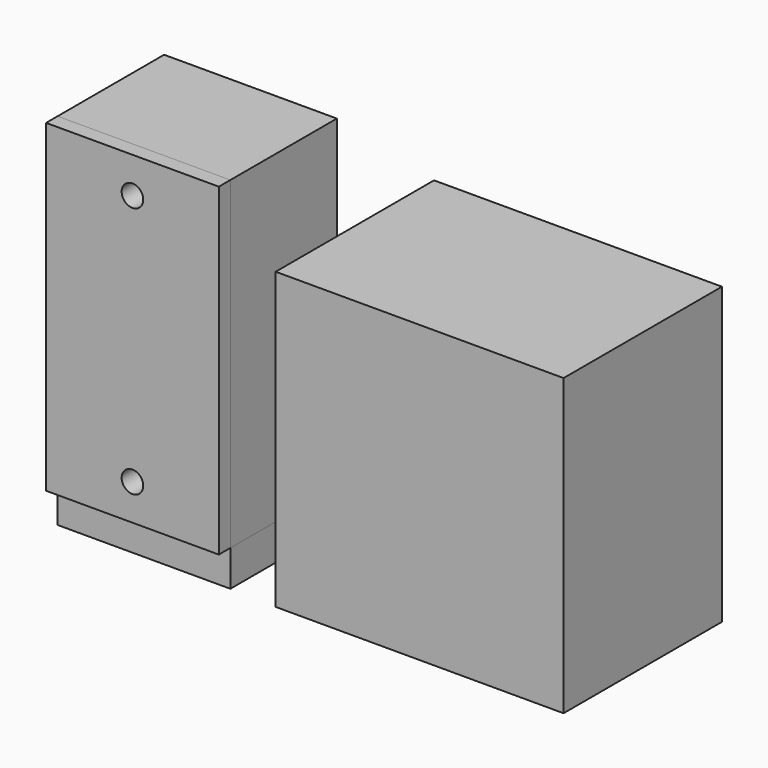
from build123d import *

# Parameters (mm, degrees)
BOX_W                  = 40
BOX_H                  = 2
BOX_DEPTH              = 80
BOX001_W               = 33
BOX001_H               = 16
BOX001_DEPTH           = 60
BOX002_W               = 80
BOX002_H               = 55
BOX002_DEPTH           = 82
CYLINDER016_R          = 3
CYLINDER016_DEPTH      = 10
CYLINDER016_ROLL_ANGLE = 90
CYLINDER015_R          = 3
CYLINDER015_DEPTH      = 10
CYLINDER015_ROLL_ANGLE = 90
BOX005_W               = 48
BOX005_H               = 4
BOX005_DEPTH           = 90
CYLINDER014_R          = 3
CYLINDER014_DEPTH      = 22
CYLINDER014_ROLL_ANGLE = 90
CYLINDER012_R          = 1.15
CYLINDER012_DEPTH      = 6
CYLINDER012_ROLL_ANGLE = 90
CYLINDER011_R          = 4
CYLINDER011_DEPTH      = 22
CYLINDER011_ROLL_ANGLE = 90
CYLINDER_R             = 3
CYLINDER_DEPTH         = 22
CYLINDER_ROLL_ANGLE    = 90
CYLINDER013_R          = 1.15
CYLINDER013_DEPTH      = 6
CYLINDER013_ROLL_ANGLE = 90
CYLINDER010_R          = 4
CYLINDER010_DEPTH      = 22
CYLINDER010_ROLL_ANGLE = 90
CYLINDER005_R          = 1.15
CYLINDER005_DEPTH      = 6
CYLINDER005_ROLL_ANGLE = 90
CYLINDER004_R          = 1.15
CYLINDER004_DEPTH      = 6
CYLINDER004_ROLL_ANGLE = 90
CYLINDER003_R          = 3.5
CYLINDER003_DEPTH      = 10
CYLINDER003_ROLL_ANGLE = 90
CYLINDER002_R          = 3.5
CYLINDER002_DEPTH      = 10
CYLINDER002_ROLL_ANGLE = 90
BOX004_W               = 42
BOX004_H               = 34
BOX004_DEPTH           = 84
BOX003_W               = 48
BOX003_H               = 37
BOX003_DEPTH           = 90
CYLINDER017_R          = 4.5
CYLINDER017_DEPTH      = 10
BOX006_W               = 48
BOX006_H               = 37
BOX006_DEPTH           = 10


with BuildPart() as pcb:
    # Box → Box (new body)
    with BuildSketch(Plane(origin=(-20, 0, 0), x_dir=(1, 0, 0), z_dir=(0, 0, 1))):
        with Locations((20, 1)):
            Rectangle(BOX_W, BOX_H)
    extrude(amount=BOX_DEPTH)


with BuildPart() as aa_battery:
    # Box001 → Box001 (new body)
    with BuildSketch(Plane(origin=(-16, -16, 10), x_dir=(1, 0, 0), z_dir=(0, 0, 1))):
        with Locations((16.5, 8)):
            Rectangle(BOX001_W, BOX001_H)
    extrude(amount=BOX001_DEPTH)


with BuildPart() as g366:
    # Box002 → Box002 (new body)
    with BuildSketch(Plane(origin=(55, -45, 0), x_dir=(1, 0, 0), z_dir=(0, 0, 1))):
        with Locations((40, 27.5)):
            Rectangle(BOX002_W, BOX002_H)
    extrude(amount=BOX002_DEPTH)


with BuildPart() as back_mount_cut004:
    # Cylinder016 → Cylinder016 (new body)
    with BuildSketch(Plane.XY):
        Circle(CYLINDER016_R)
    extrude(amount=CYLINDER016_DEPTH)


with BuildPart() as back_mount_cut004_1:
    # Cylinder016 roll: moved
    add(back_mount_cut004.part.rotate(Axis((0, 0, 0), (1, 0, 0)), CYLINDER016_ROLL_ANGLE))


with BuildPart() as back_mount_cut004_2:
    # Cylinder016 placement: moved
    add(back_mount_cut004_1.part.moved(Location((0, -16, 5))))


with BuildPart() as fusion006:
    # Cylinder015 → Cylinder015 (new body)
    with BuildSketch(Plane.XY):
        Circle(CYLINDER015_R)
    extrude(amount=CYLINDER015_DEPTH)


with BuildPart() as fusion006_1:
    # Cylinder015 roll: moved
    add(fusion006.part.rotate(Axis((0, 0, 0), (1, 0, 0)), CYLINDER015_ROLL_ANGLE))


with BuildPart() as fusion006_2:
    # Cylinder015 placement: moved
    add(fusion006_1.part.moved(Location((0, -16, 75))))

    # Fusion006: union Back_Mount_cut004
    add(back_mount_cut004_2.part)


with BuildPart() as cut003:
    # Box005 → Box005 (new body)
    with BuildSketch(Plane(origin=(-24, -26, -5), x_dir=(1, 0, 0), z_dir=(0, 0, 1))):
        with Locations((24, 2)):
            Rectangle(BOX005_W, BOX005_H)
    extrude(amount=BOX005_DEPTH)

    # Cut003: cut Fusion006
    add(fusion006_2.part, mode=Mode.SUBTRACT)


with BuildPart() as cylinder014:
    # Cylinder014 → Cylinder014 (new body)
    with BuildSketch(Plane.XY):
        Circle(CYLINDER014_R)
    extrude(amount=CYLINDER014_DEPTH)


with BuildPart() as cylinder014_1:
    # Cylinder014 roll: moved
    add(cylinder014.part.rotate(Axis((0, 0, 0), (1, 0, 0)), CYLINDER014_ROLL_ANGLE))


with BuildPart() as cylinder014_2:
    # Cylinder014 placement: moved
    add(cylinder014_1.part.moved(Location((0, -1, 5))))


with BuildPart() as fusion004:
    # Cylinder012 → Cylinder012 (new body)
    with BuildSketch(Plane.XY):
        Circle(CYLINDER012_R)
    extrude(amount=CYLINDER012_DEPTH)


with BuildPart() as fusion004_1:
    # Cylinder012 roll: moved
    add(fusion004.part.rotate(Axis((0, 0, 0), (1, 0, 0)), CYLINDER012_ROLL_ANGLE))


with BuildPart() as fusion004_2:
    # Cylinder012 placement: moved
    add(fusion004_1.part.moved(Location((0, 5, 5))))

    # Fusion004: union Cylinder014
    add(cylinder014_2.part)


with BuildPart() as cut001:
    # Cylinder011 → Cylinder011 (new body)
    with BuildSketch(Plane.XY):
        Circle(CYLINDER011_R)
    extrude(amount=CYLINDER011_DEPTH)


with BuildPart() as cut001_1:
    # Cylinder011 roll: moved
    add(cut001.part.rotate(Axis((0, 0, 0), (1, 0, 0)), CYLINDER011_ROLL_ANGLE))


with BuildPart() as cut001_2:
    # Cylinder011 placement: moved
    add(cut001_1.part.moved(Location((0, 0, 5))))

    # Cut001: cut Fusion004
    add(fusion004_2.part, mode=Mode.SUBTRACT)


with BuildPart() as cylinder:
    # Cylinder → Cylinder (new body)
    with BuildSketch(Plane.XY):
        Circle(CYLINDER_R)
    extrude(amount=CYLINDER_DEPTH)


with BuildPart() as cylinder_1:
    # Cylinder roll: moved
    add(cylinder.part.rotate(Axis((0, 0, 0), (1, 0, 0)), CYLINDER_ROLL_ANGLE))


with BuildPart() as cylinder_2:
    # Cylinder placement: moved
    add(cylinder_1.part.moved(Location((0, -1, 75))))


with BuildPart() as fusion:
    # Cylinder013 → Cylinder013 (new body)
    with BuildSketch(Plane.XY):
        Circle(CYLINDER013_R)
    extrude(amount=CYLINDER013_DEPTH)


with BuildPart() as fusion_1:
    # Cylinder013 roll: moved
    add(fusion.part.rotate(Axis((0, 0, 0), (1, 0, 0)), CYLINDER013_ROLL_ANGLE))


with BuildPart() as fusion_2:
    # Cylinder013 placement: moved
    add(fusion_1.part.moved(Location((0, 5, 75))))

    # Fusion: union Cylinder
    add(cylinder_2.part)


with BuildPart() as back:
    # Cylinder010 → Cylinder010 (new body)
    with BuildSketch(Plane.XY):
        Circle(CYLINDER010_R)
    extrude(amount=CYLINDER010_DEPTH)


with BuildPart() as back_1:
    # Cylinder010 roll: moved
    add(back.part.rotate(Axis((0, 0, 0), (1, 0, 0)), CYLINDER010_ROLL_ANGLE))


with BuildPart() as back_2:
    # Cylinder010 placement: moved
    add(back_1.part.moved(Location((0, 0, 75))))

    # Cut002: cut Fusion
    add(fusion_2.part, mode=Mode.SUBTRACT)

    # Fusion005: union Cut001
    add(cut001_2.part)

    # Fusion007: union Cut003
    add(cut003.part)


with BuildPart() as pcb_mount_cut2:
    # Cylinder005 → Cylinder005 (new body)
    with BuildSketch(Plane.XY):
        Circle(CYLINDER005_R)
    extrude(amount=CYLINDER005_DEPTH)


with BuildPart() as pcb_mount_cut2_1:
    # Cylinder005 roll: moved
    add(pcb_mount_cut2.part.rotate(Axis((0, 0, 0), (1, 0, 0)), CYLINDER005_ROLL_ANGLE))


with BuildPart() as pcb_mount_cut2_2:
    # Cylinder005 placement: moved
    add(pcb_mount_cut2_1.part.moved(Location((0, 8, 5))))


with BuildPart() as fusion003:
    # Cylinder004 → Cylinder004 (new body)
    with BuildSketch(Plane.XY):
        Circle(CYLINDER004_R)
    extrude(amount=CYLINDER004_DEPTH)


with BuildPart() as fusion003_1:
    # Cylinder004 roll: moved
    add(fusion003.part.rotate(Axis((0, 0, 0), (1, 0, 0)), CYLINDER004_ROLL_ANGLE))


with BuildPart() as fusion003_2:
    # Cylinder004 placement: moved
    add(fusion003_1.part.moved(Location((0, 8, 75))))

    # Fusion003: union PCB Mount_cut2
    add(pcb_mount_cut2_2.part)


with BuildPart() as pcb_mount2:
    # Cylinder003 → Cylinder003 (new body)
    with BuildSketch(Plane.XY):
        Circle(CYLINDER003_R)
    extrude(amount=CYLINDER003_DEPTH)


with BuildPart() as pcb_mount2_1:
    # Cylinder003 roll: moved
    add(pcb_mount2.part.rotate(Axis((0, 0, 0), (1, 0, 0)), CYLINDER003_ROLL_ANGLE))


with BuildPart() as pcb_mount2_2:
    # Cylinder003 placement: moved
    add(pcb_mount2_1.part.moved(Location((0, 12, 5))))


with BuildPart() as cut004:
    # Cylinder002 → Cylinder002 (new body)
    with BuildSketch(Plane.XY):
        Circle(CYLINDER002_R)
    extrude(amount=CYLINDER002_DEPTH)


with BuildPart() as cut004_1:
    # Cylinder002 roll: moved
    add(cut004.part.rotate(Axis((0, 0, 0), (1, 0, 0)), CYLINDER002_ROLL_ANGLE))


with BuildPart() as cut004_2:
    # Cylinder002 placement: moved
    add(cut004_1.part.moved(Location((0, 12, 75))))

    # Fusion008: union PCB Mount2
    add(pcb_mount2_2.part)

    # Cut004: cut Fusion003
    add(fusion003_2.part, mode=Mode.SUBTRACT)


with BuildPart() as cube001:
    # Box004 → Box004 (new body)
    with BuildSketch(Plane(origin=(-21, -22, -2), x_dir=(1, 0, 0), z_dir=(0, 0, 1))):
        with Locations((21, 17)):
            Rectangle(BOX004_W, BOX004_H)
    extrude(amount=BOX004_DEPTH)


with BuildPart() as front:
    # Box003 → Box003 (new body)
    with BuildSketch(Plane(origin=(-24, -22, -5), x_dir=(1, 0, 0), z_dir=(0, 0, 1))):
        with Locations((24, 18.5)):
            Rectangle(BOX003_W, BOX003_H)
    extrude(amount=BOX003_DEPTH)

    # Cut: cut Cube001
    add(cube001.part, mode=Mode.SUBTRACT)

    # Fusion009: union Cut004
    add(cut004_2.part)


with BuildPart() as cylinder017:
    # Cylinder017 → Cylinder017 (new body)
    with BuildSketch(Plane(origin=(0, -4, -15), x_dir=(1, 0, 0), z_dir=(0, 0, 1))):
        Circle(CYLINDER017_R)
    extrude(amount=CYLINDER017_DEPTH)


with BuildPart() as obj1:
    # Box006 → Box006 (new body)
    with BuildSketch(Plane(origin=(-24, -22, -15), x_dir=(1, 0, 0), z_dir=(0, 0, 1))):
        with Locations((24, 18.5)):
            Rectangle(BOX006_W, BOX006_H)
    extrude(amount=BOX006_DEPTH)

    # Cut005: cut Cylinder017
    add(cylinder017.part, mode=Mode.SUBTRACT)


solid = Compound([pcb.part, aa_battery.part, g366.part, back_2.part, front.part, obj1.part])
